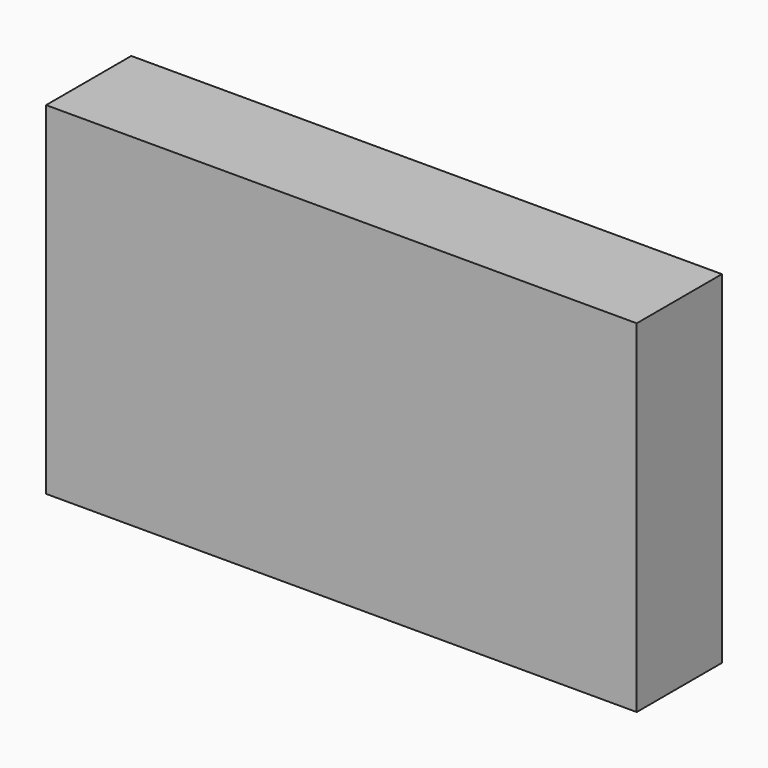
from build123d import *

# Parameters (mm, degrees)
F0_W     = 140.904985
F0_H     = 81.648435
F1_DEPTH = 25.4
F2_R     = 12.273047
F2_R_2   = 12.288223
F2_W     = 38.230037
F2_H     = 20.480374
F3_DEPTH = 43.692471


with BuildPart() as f1:
    # F0 (on Front) → F1 (new body)
    with BuildSketch(Plane.XZ):
        with Locations((2.457645, -2.867254)):
            Rectangle(F0_W, F0_H)
    extrude(amount=F1_DEPTH)

    # F2 (on Top) → F3 (cut, through all)
    with BuildSketch(Plane.XY):
        with Locations((56.525838, -12.561298)):
            Circle(F2_R)
        with Locations((23.484165, -12.561298)):
            Circle(F2_R_2)
        with Locations((-40.687681, -13.243976)):
            Rectangle(F2_W, F2_H)
    extrude(amount=-F3_DEPTH, mode=Mode.SUBTRACT)


solid = f1.part
